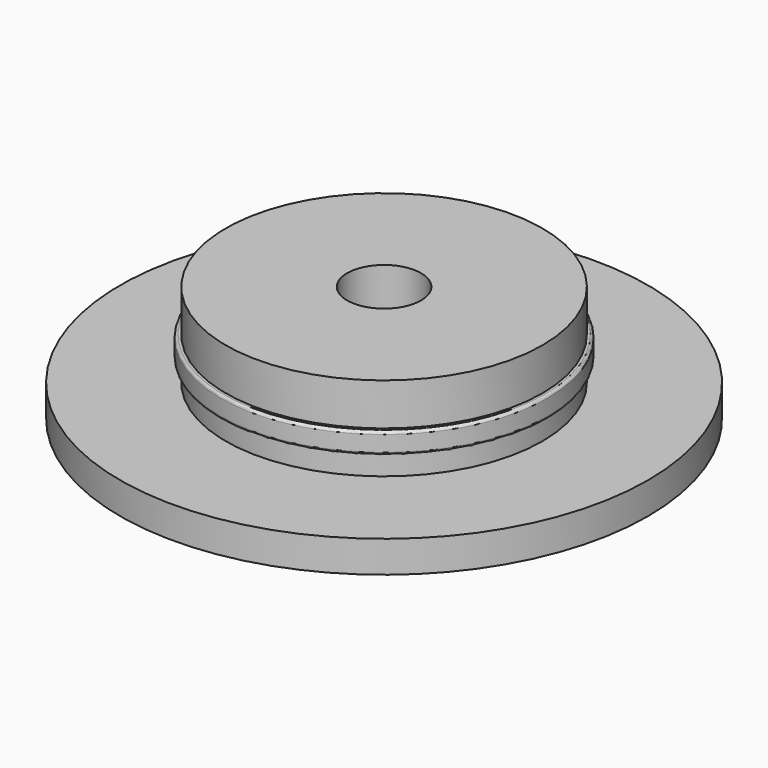
from build123d import *

# Parameters (mm, degrees)
F0_R      = 12.5
F1_DEPTH  = 1.5
F2_R      = 7.5
F3_DEPTH  = 1
F4_R      = 7.75
F5_DEPTH  = 1
F6_R      = 7.5
F7_DEPTH  = 2
F9_R      = 1.75
F10_DEPTH = 5.501
F11_R     = 0.125


with BuildPart() as f1:
    # F0 (on Top) → F1 (new body)
    with BuildSketch(Plane.XY):
        Circle(F0_R)
    extrude(amount=F1_DEPTH)

    # F2 (on face) → F3 (join)
    with BuildSketch(Plane.XY.offset(1.5)):
        Circle(F2_R)
    extrude(amount=F3_DEPTH)

    # F4 (on face) → F5 (join)
    with BuildSketch(Plane.XY.offset(2.5)):
        Circle(F4_R)
    extrude(amount=F5_DEPTH)

    # F6 (on face) → F7 (join)
    with BuildSketch(Plane.XY.offset(3.5)):
        Circle(F6_R)
    extrude(amount=F7_DEPTH)

    # F9 (on face) → F10 (cut, through all)
    with BuildSketch(Plane.XY.offset(5.5)):
        Circle(F9_R)
    extrude(amount=-F10_DEPTH, mode=Mode.SUBTRACT)

    # F11
    f11_edges = [f1.edges().sort_by_distance(p)[0] for p in [
        (-7.75, 0, 3.5),
        (-7.75, 0, 2.5),
    ]]
    fillet(f11_edges, radius=F11_R)


solid = f1.part
